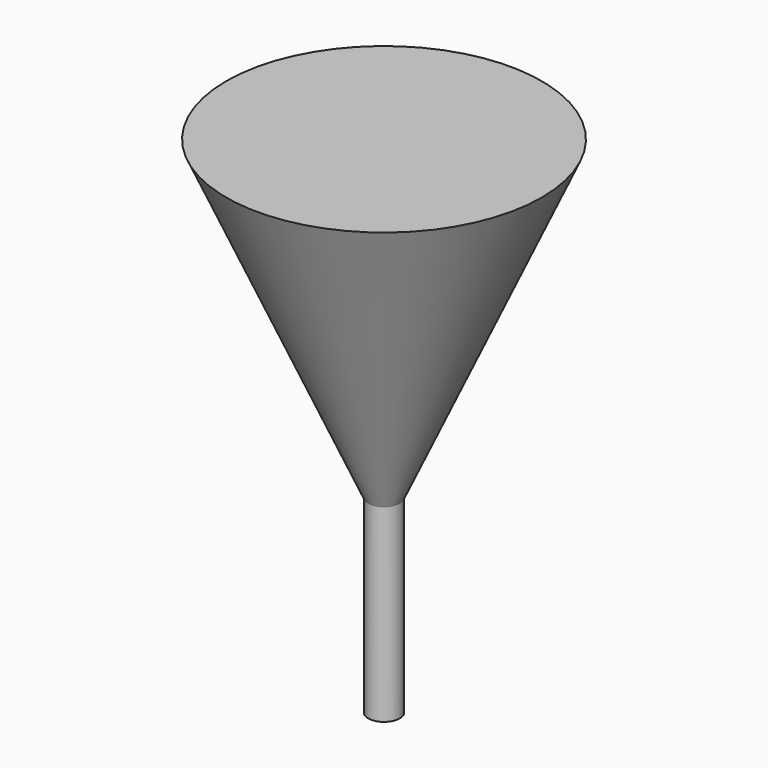
from build123d import *

# Parameters (mm, degrees)
F3_R     = 6.35
F4_R     = 63.5
F2_R     = 6.35
F6_DEPTH = 78.74


with BuildPart() as f5:
    # F3 (on offset) → F5 section 0
    with BuildSketch(Plane.XY.offset(76.2)):
        Circle(F3_R)
    # F4 (on offset) → F5 section 1
    with BuildSketch(Plane.XY.offset(203.2)):
        Circle(F4_R)
    loft()

    # F2 (on Top) → F6 (join)
    with BuildSketch(Plane.XY):
        Circle(F2_R)
    extrude(amount=F6_DEPTH)


solid = f5.part
